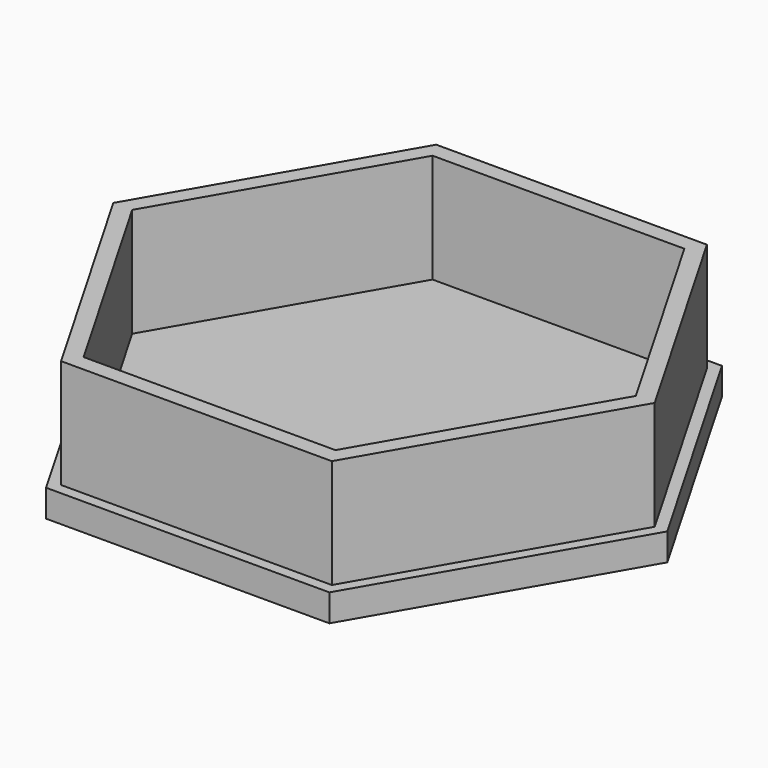
from build123d import *

# Parameters (mm, degrees)
F1_DEPTH = 6.35
F3_DEPTH = 25.4


with BuildPart() as f1:
    # F0 (on Top) → F1 (new body)
    with BuildSketch(Plane.XY):
        Polygon((32.995568, -57.15), (65.991136, 0), (32.995568, 57.15), (-32.995568, 57.15), (-65.991136, 0), (-32.995568, -57.15), align=None)
    extrude(amount=-F1_DEPTH)

    # F2 (on Top) → F3 (join)
    with BuildSketch(Plane.XY):
        Polygon((31.529098, -54.61), (63.058196, 0), (31.529098, 54.61), (-31.529098, 54.61), (-63.058196, 0), (-31.529098, -54.61), align=None)
        Polygon((29.329394, 50.8), (58.658787, 0), (29.329394, -50.8), (-29.329394, -50.8), (-58.658787, 0), (-29.329394, 50.8), align=None, mode=Mode.SUBTRACT)
    extrude(amount=F3_DEPTH)


solid = f1.part
